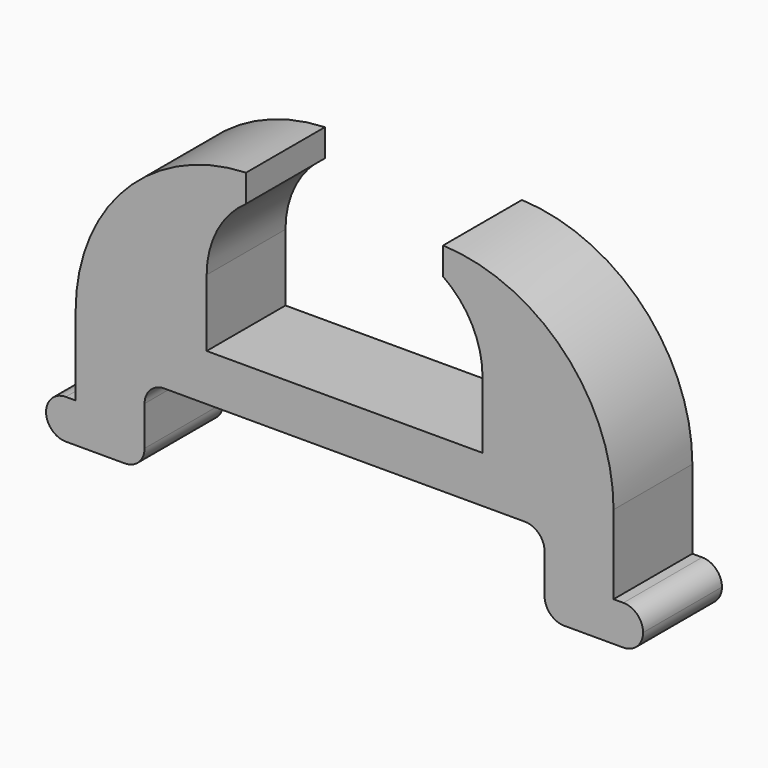
from build123d import *

# Parameters (mm, degrees)
F2_DEPTH = 2.5


with BuildPart() as f2:
    # F1 (on Front) → F2 (new body, symmetric)
    with BuildSketch(Plane.XZ):
        with BuildLine():
            Line((-13.65, -9.118186), (-14.15, -9.118186))
            ThreePointArc((-14.15, -9.118186), (-14.857107, -9.41108), (-15.15, -10.118186))
            ThreePointArc((-15.15, -10.118186), (-14.857107, -10.825293), (-14.15, -11.118186))
            Line((-14.15, -11.118186), (-11.15, -11.118186))
            ThreePointArc((-11.15, -11.118186), (-10.442893, -10.825293), (-10.15, -10.118186))
            Line((-10.15, -10.118186), (-10.15, -8.118186))
            ThreePointArc((-10.15, -8.118186), (-9.857107, -7.41108), (-9.15, -7.118186))
            Line((-9.15, -7.118186), (0, -7.118186))
            Line((0, -7.118186), (0, -4.742948))
            Line((0, -4.742948), (-7, -4.742948))
            Line((-7, -4.742948), (-7, -1.342948))
            ThreePointArc((-7, -1.342948), (-6.469822, 0.815107), (-5, 2.481814))
            Line((-5, 2.481814), (-5, 3.875005))
            ThreePointArc((-5, 3.875005), (-11.136524, 1.120804), (-13.65, -5.118186))
            Line((-13.65, -5.118186), (-13.65, -9.118186))
        make_face()
    extrude(amount=F2_DEPTH, both=True)

    # F3: F2 across face


with BuildPart() as f2_1:
    add(f2.part)
    add(f2.part.mirror(Plane(origin=(0, 0, -5.930567), x_dir=(0, 1, 0), z_dir=(1, 0, 0))))


solid = f2_1.part
